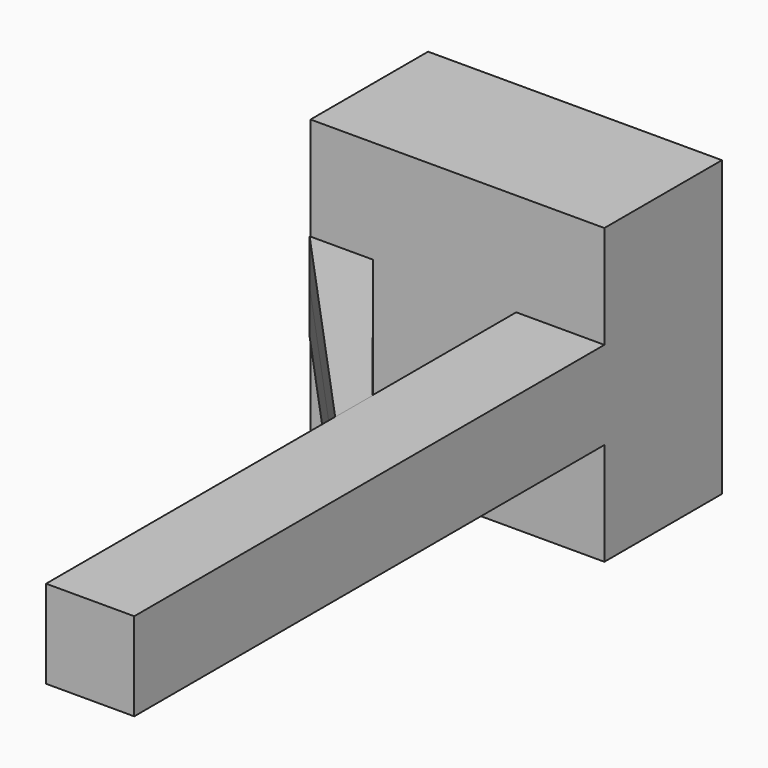
from build123d import *

# Parameters (mm, degrees)
F0_W     = 20
F0_H     = 20
F1_DEPTH = 10
F2_R     = 5
F3_DEPTH = 1.6
F5_DEPTH = 40
F7_DEPTH = 3
F8_DEPTH = 3


with BuildPart() as f1:
    # F0 (on Front) → F1 (new body)
    with BuildSketch(Plane.XZ):
        Rectangle(F0_W, F0_H)
    extrude(amount=F1_DEPTH)

    # F2 (on Front) → F3 (cut)
    with BuildSketch(Plane.XZ):
        Circle(F2_R)
    extrude(amount=F3_DEPTH, mode=Mode.SUBTRACT)

    # F4 (on face) → F5 (join)
    with BuildSketch(Plane.XZ.offset(10)):
        Polygon((10, -3), (10, 0), (10, 3), (4, 3), (4, -3), align=None)
    extrude(amount=F5_DEPTH)


with BuildPart() as f7:
    # F6 (on Top) → F7 (new body)
    with BuildSketch(Plane.XY):
        Polygon((4.015921, -25.42335), (4.022068, -22.261256), (-5.716987, -10.025485), (-10.042533, -10.025485), align=None)
    extrude(amount=F7_DEPTH)


with BuildPart() as f8:
    # F7_face (on face) → F8 (new body)
    with BuildSketch(Plane(origin=(-2.42975, -16.449823, 0), x_dir=(1, 0, 0), z_dir=(0, 0, -1))):
        Polygon((-7.612783, -6.424337), (-3.287238, -6.424337), (6.451818, 5.811434), (6.445671, 8.973527), align=None)
    extrude(amount=F8_DEPTH)


solid = Compound([f1.part, f7.part, f8.part])
